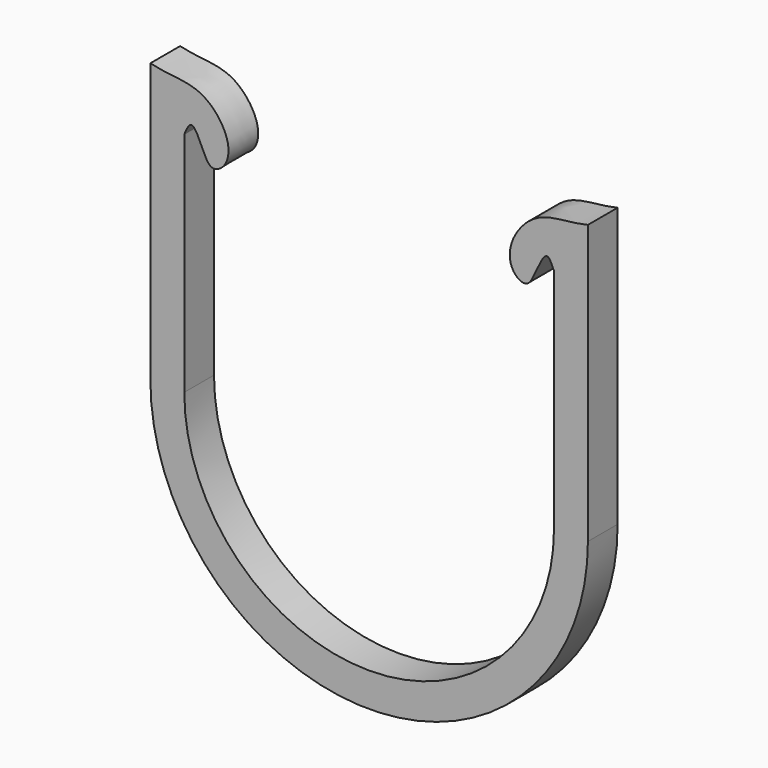
from build123d import *

# Parameters (mm, degrees)
F1_DEPTH = 4.572


with BuildPart() as f1:
    # F0 (on Front) → F1 (new body)
    with BuildSketch(Plane.XZ):
        with BuildLine():
            Line((0, 34.29), (0, 0))
            ThreePointArc((0, 0), (26.9198719018, -26.9198719018), (53.8397438036, 0))
            Line((53.8397438036, 0), (53.8397438036, 34.29))
            add(Edge.make_bspline(
                [(53.8397438036, 34.29), (51.685905008, 33.7274732412), (47.4360628088, 34.1344134357), (43.7819059505, 29.1943330988), (44.436788476, 25.9961819248), (46.5119035184, 24.9576054918), (47.4412733442, 27.2815292023), (48.789808972, 30.0286001615), (49.3621611426, 28.6549786971), (49.6655719018, 27.94)],
                knots=[0, 0, 0, 0, 0.2084508028, 0.39950864, 0.5406852081, 0.6444008875, 0.7699077507, 0.8954145643, 1, 1, 1, 1], degree=3))
            Line((49.6655719018, 27.94), (49.6655719018, 0))
            ThreePointArc((49.6655719018, 0), (26.9198719018, -22.7457), (4.1741719018, 0))
            Line((4.1741719018, 0), (4.1741719018, 27.94))
            add(Edge.make_bspline(
                [(0, 34.29), (2.1538387956, 33.7274732412), (6.4036809948, 34.1344134357), (10.0578378531, 29.1943330988), (9.4029553275, 25.9961819248), (7.3278402852, 24.9576054918), (6.3984704594, 27.2815292023), (5.0499348315, 30.0286001615), (4.4775826609, 28.6549786971), (4.1741719018, 27.94)],
                knots=[0, 0, 0, 0, 0.2084508028, 0.39950864, 0.5406852081, 0.6444008875, 0.7699077507, 0.8954145643, 1, 1, 1, 1], degree=3))
        make_face()
    extrude(amount=F1_DEPTH)


solid = f1.part
